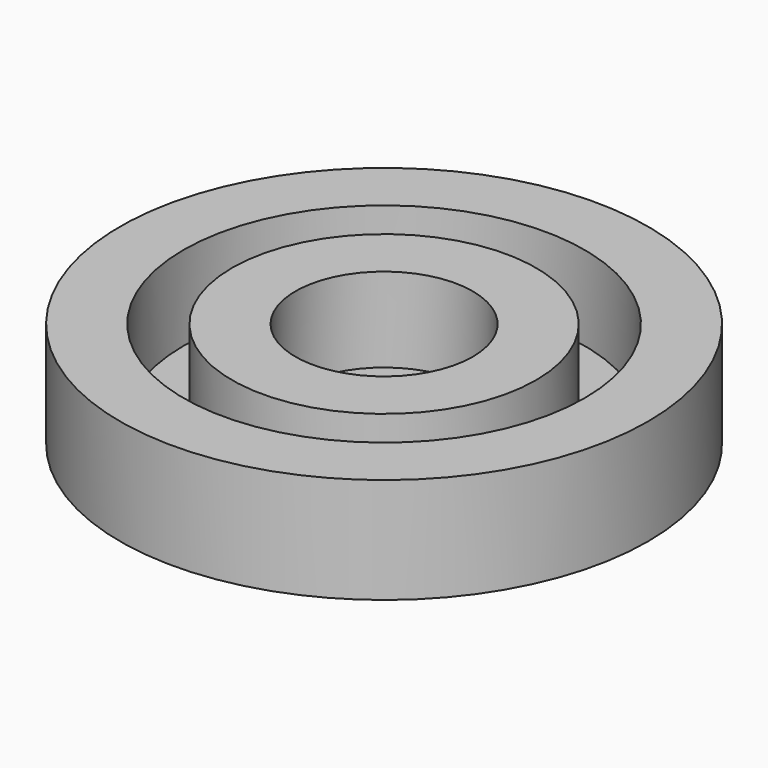
from build123d import *

# Parameters (mm, degrees)
CYLINDER008_R     = 12.5
CYLINDER008_DEPTH = 10
CYLINDER007_R     = 2.5
CYLINDER007_DEPTH = 10
CYLINDER005_R     = 9.5
CYLINDER005_DEPTH = 10
CYLINDER004_R     = 12.5
CYLINDER004_DEPTH = 10
CYLINDER001_R     = 4.2
CYLINDER001_DEPTH = 10
CYLINDER002_R     = 7.2
CYLINDER002_DEPTH = 10
CYLINDER006_R     = 12.5
CYLINDER006_DEPTH = 1


with BuildPart() as cylinder008:
    # Cylinder008 → Cylinder008 (new body)
    with BuildSketch(Plane.XY.offset(5)):
        Circle(CYLINDER008_R)
    extrude(amount=CYLINDER008_DEPTH)


with BuildPart() as cylinder007:
    # Cylinder007 → Cylinder007 (new body)
    with BuildSketch(Plane.XY):
        Circle(CYLINDER007_R)
    extrude(amount=CYLINDER007_DEPTH)


with BuildPart() as cylinder005:
    # Cylinder005 → Cylinder005 (new body)
    with BuildSketch(Plane.XY):
        Circle(CYLINDER005_R)
    extrude(amount=CYLINDER005_DEPTH)


with BuildPart() as cut001:
    # Cylinder004 → Cylinder004 (new body)
    with BuildSketch(Plane.XY):
        Circle(CYLINDER004_R)
    extrude(amount=CYLINDER004_DEPTH)

    # Cut001: cut Cylinder005
    add(cylinder005.part, mode=Mode.SUBTRACT)


with BuildPart() as cylinder001:
    # Cylinder001 → Cylinder001 (new body)
    with BuildSketch(Plane.XY):
        Circle(CYLINDER001_R)
    extrude(amount=CYLINDER001_DEPTH)


with BuildPart() as cut:
    # Cylinder002 → Cylinder002 (new body)
    with BuildSketch(Plane.XY):
        Circle(CYLINDER002_R)
    extrude(amount=CYLINDER002_DEPTH)

    # Cut: cut Cylinder001
    add(cylinder001.part, mode=Mode.SUBTRACT)


with BuildPart() as cut003:
    # Cylinder006 → Cylinder006 (new body)
    with BuildSketch(Plane.XY):
        Circle(CYLINDER006_R)
    extrude(amount=CYLINDER006_DEPTH)

    # Fusion: union Cut001, Cut
    add(cut001.part)
    add(cut.part)

    # Cut002: cut Cylinder007
    add(cylinder007.part, mode=Mode.SUBTRACT)

    # Cut003: cut Cylinder008
    add(cylinder008.part, mode=Mode.SUBTRACT)


solid = cut003.part
